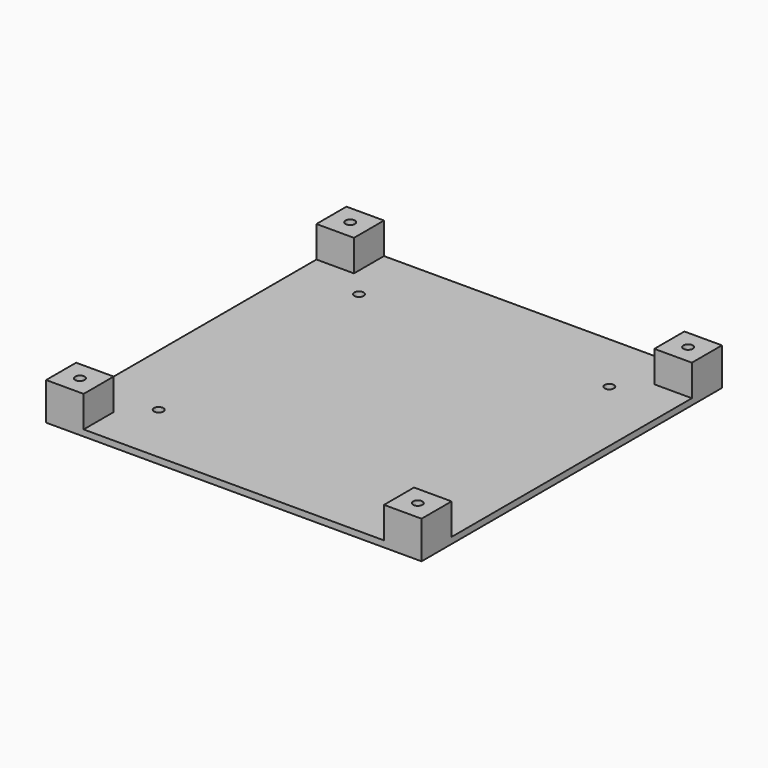
from build123d import *

# Parameters (mm, degrees)
SKETCH_W     = 120
SKETCH_H     = 120
SKETCH_R     = 1.5
PAD_DEPTH    = 2
SKETCH002_W  = 12
SKETCH002_H  = 12
SKETCH002_R  = 1.5
PAD001_DEPTH = 12
POCKET_DEPTH = 9


with BuildPart() as part:
    # Sketch → Pad (new body)
    with BuildSketch(Plane.XY):
        Rectangle(SKETCH_W, SKETCH_H)
        with Locations((-40, 40)):
            Circle(SKETCH_R, mode=Mode.SUBTRACT)
        with Locations((40, 40)):
            Circle(SKETCH_R, mode=Mode.SUBTRACT)
        with Locations((40, -40)):
            Circle(SKETCH_R, mode=Mode.SUBTRACT)
        with Locations((-40, -40)):
            Circle(SKETCH_R, mode=Mode.SUBTRACT)
        with Locations((-54, 54)):
            Circle(SKETCH_R, mode=Mode.SUBTRACT)
        with Locations((54, 54)):
            Circle(SKETCH_R, mode=Mode.SUBTRACT)
        with Locations((54, -54)):
            Circle(SKETCH_R, mode=Mode.SUBTRACT)
        with Locations((-54, -54)):
            Circle(SKETCH_R, mode=Mode.SUBTRACT)
    extrude(amount=PAD_DEPTH)

    # Sketch002 → Pad001 (join)
    with BuildSketch(Plane.XY):
        with Locations((-54, -54)):
            Rectangle(SKETCH002_W, SKETCH002_H)
        with Locations((-54, -54)):
            Circle(SKETCH002_R, mode=Mode.SUBTRACT)
        with Locations((54, -54)):
            Rectangle(SKETCH002_W, SKETCH002_H)
        with Locations((54, -54)):
            Circle(SKETCH002_R, mode=Mode.SUBTRACT)
        with Locations((54, 54)):
            Rectangle(SKETCH002_W, SKETCH002_H)
        with Locations((54, 54)):
            Circle(SKETCH002_R, mode=Mode.SUBTRACT)
        with Locations((-54, 54)):
            Rectangle(SKETCH002_W, SKETCH002_H)
        with Locations((-54, 54)):
            Circle(SKETCH002_R, mode=Mode.SUBTRACT)
    extrude(amount=PAD001_DEPTH)

    # Sketch001 → Pocket (cut)
    with BuildSketch(Plane.XY):
        Polygon((-52.375, 51.185417), (-50.75, 54), (-52.375, 56.814583), (-55.625, 56.814583), (-57.25, 54), (-55.625, 51.185417), align=None)
        Polygon((57.25, 54), (55.625, 56.814583), (52.375, 56.814583), (50.75, 54), (52.375, 51.185417), (55.625, 51.185417), align=None)
        Polygon((-50.75, -54), (-52.375, -51.185417), (-55.625, -51.185417), (-57.25, -54), (-55.625, -56.814583), (-52.375, -56.814583), align=None)
        Polygon((57.25, -54), (55.625, -51.185417), (52.375, -51.185417), (50.75, -54), (52.375, -56.814583), (55.625, -56.814583), align=None)
    extrude(amount=POCKET_DEPTH, mode=Mode.SUBTRACT)


solid = part.part
